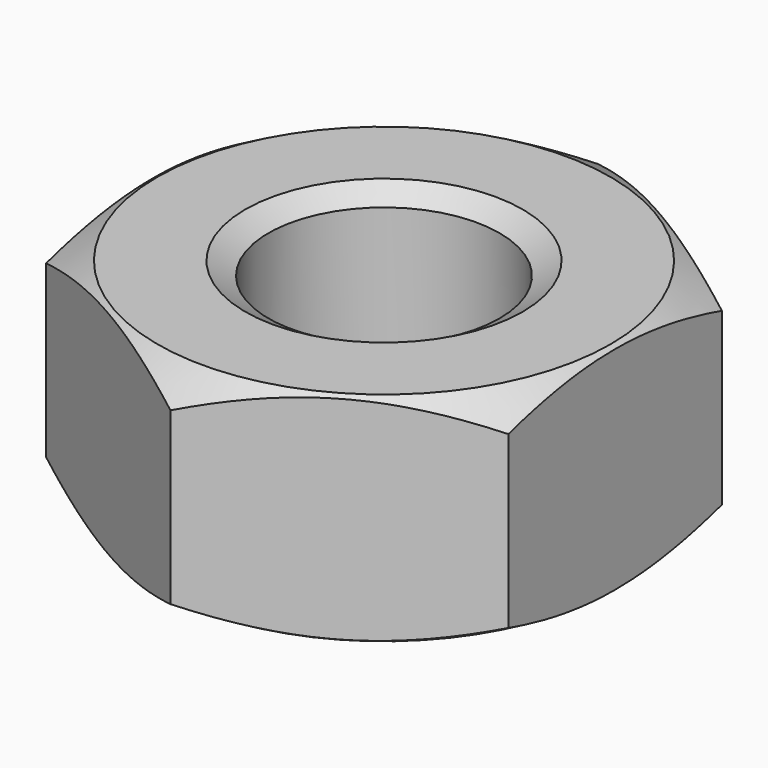
from build123d import *

# Parameters (mm, degrees)
SKETCH001_R  = 7
POCKET_DEPTH = 4.701


with BuildPart() as part:
    # Sketch → Revolution (revolve)
    with BuildSketch(Plane.XZ):
        Polygon((3, 0), (2.5, 0.288675), (2.5, 4.411325), (3, 4.7), (4.9, 4.7), (6, 4.064915), (6, 0.635085), (4.9, 0), align=None)
    revolve(axis=Axis((0, 0, 0), (0, 0, 1)))

    # Sketch001 → Pocket (cut, through all)
    with BuildSketch(Plane(origin=(0, 0, 4.7), x_dir=(-1, 0, 0), z_dir=(0, 0, 1))):
        with Locations((0.052409, -0.034939)):
            Circle(SKETCH001_R)
        Polygon((5, -2.886751), (5, 2.886751), (0, 5.773503), (-5, 2.886751), (-5, -2.886751), (0, -5.773503), align=None, mode=Mode.SUBTRACT)
    extrude(amount=-POCKET_DEPTH, mode=Mode.SUBTRACT)


solid = part.part
